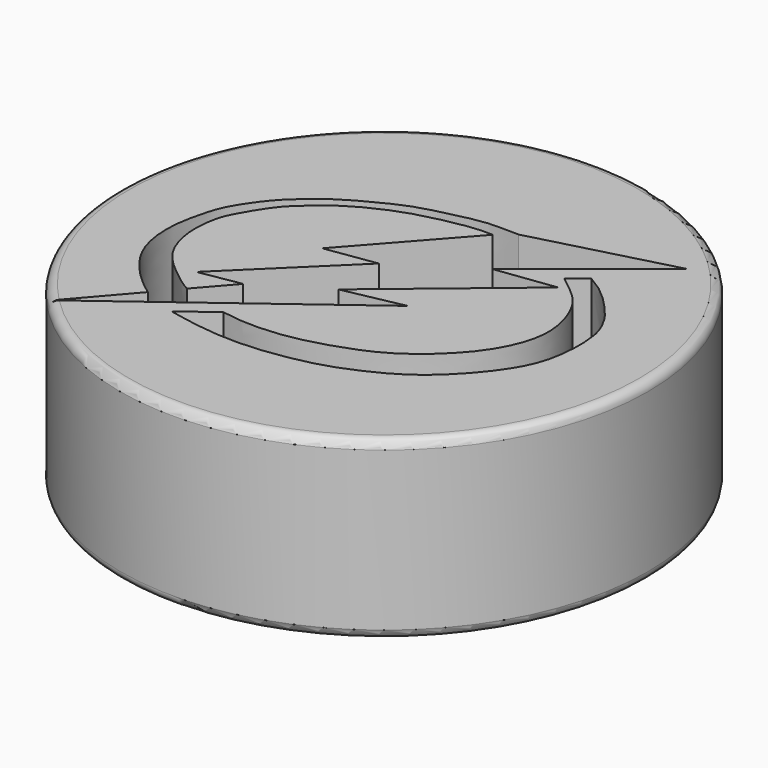
from build123d import *

# Parameters (mm, degrees)
F0_R     = 38.1
F1_DEPTH = 25.4
F2_R     = 1.27
F4_DEPTH = 10.16


with BuildPart() as f1:
    # F0 (on Top) → F1 (new body)
    with BuildSketch(Plane.XY):
        Circle(F0_R)
    extrude(amount=F1_DEPTH)

    # F2
    f2_edges = [f1.edges().sort_by_distance(p)[0] for p in [
        (-38.1, 0, 25.4),
        (-38.1, 0, 0),
    ]]
    fillet(f2_edges, radius=F2_R)

    # F3 (on face) → F4 (cut)
    with BuildSketch(Plane.XY.offset(25.4)):
        with BuildLine():
            Line((-19.5661182899, -18.1706012091), (-26.7553265637, -26.4851974048))
            Line((-26.7553265637, -26.4851974048), (5.4061874503, -2.5106431912))
            Line((5.4061874503, -2.5106431912), (-3.200049929, -4.2408025526))
            Line((-3.200049929, -4.2408025526), (15.8394873054, 11.5967263231))
            Line((15.8394873054, 11.5967263231), (7.2614595686, 10.4792513123))
            Line((7.2614595686, 10.4792513123), (24.433595378, 24.2147761598))
            Line((24.433595378, 24.2147761598), (4.2949300972, 18.9045294))
            add(Edge.make_bspline(
                [(4.2949300972, 18.9045294), (3.8578868072, 18.9001902263), (2.8255551255, 18.8899407461), (0.0728269951, 18.9879537596), (-2.416985134, 18.5661852441), (-6.4107369283, 17.6468576464), (-9.7123233005, 16.7021829393), (-12.5398092723, 15.3440163882), (-16.8721606771, 13.1040275758), (-19.9007344343, 10.7357054975), (-22.8894463137, 8.0049544035), (-25.8325272327, 3.571514678), (-26.5942743919, 1.0228501359), (-27.8243775869, -3.8193612894), (-27.1445214519, -10.193277819), (-23.7350134876, -14.6357550528), (-21.4008680736, -16.806202139), (-20.1406895566, -17.7433252345), (-19.5661182899, -18.1706012091)],
                knots=[0, 0, 0, 0, 0.0393230905, 0.0928843277, 0.1459402353, 0.2120782925, 0.2727584507, 0.3308515796, 0.40286638, 0.4671851532, 0.533772906, 0.608108541, 0.6617575665, 0.7335395787, 0.8165602186, 0.8932761667, 0.9513398719, 1, 1, 1, 1], degree=3))
        make_face()
        with BuildLine():
            add(Edge.make_bspline(
                [(2.0359272731, 17.0305203597), (1.3954106628, 17.0546042076), (-0.0892415224, 17.1104281111), (-3.5731065553, 16.5502831509), (-8.5082169393, 15.40758038), (-12.1799994257, 13.8781536445), (-15.6913864649, 12.0326267348), (-18.7093375005, 9.6369774455), (-21.4249459198, 7.0615317926), (-23.465217898, 3.5036235622), (-24.8205084542, 1.0789665507), (-25.414591442, -3.8024334011), (-23.9169773543, -8.8156140602), (-20.9006750006, -11.7286450069), (-17.920148096, -14.0343436431), (-17.0053674551, -14.5514987399), (-16.6593735189, -14.7471003077)],
                knots=[0, 0, 0, 0, 0.0533585134, 0.1236795927, 0.2084451349, 0.2836295249, 0.3576121735, 0.4308488556, 0.5037700814, 0.5784669466, 0.6408484233, 0.7223586051, 0.8071746244, 0.8844167139, 0.9562833817, 1, 1, 1, 1], degree=3))
            Line((2.0359272731, 17.0305203597), (-10.8908848154, 2.4554725062))
            Line((-10.8908848154, 2.4554725062), (-3.5924285351, 3.5412959569))
            Line((-3.5924285351, 3.5412959569), (-18.3622744366, -10.8986072092))
            Line((-18.3622744366, -10.8986072092), (-12.4181416451, -9.8916973697))
            Line((-12.4181416451, -9.8916973697), (-16.6593735189, -14.7471003077))
        make_face(mode=Mode.SUBTRACT)
        with BuildLine():
            add(Edge.make_bspline(
                [(17.3873861626, 15.6334186555), (18.0370958634, 15.2589721072), (19.3749563206, 14.4879243151), (21.3265644237, 12.8038361847), (23.0478327612, 10.9995316669), (24.778719369, 8.9559550933), (26.2146688484, 6.1020958965), (26.3979131008, 3.9139763932), (26.5491055591, 2.71825424), (26.4625942606, -0.8082938445), (25.5136962919, -4.8925023756), (22.5000147718, -9.5825463131), (17.5963832254, -14.740520896), (12.3872032479, -17.7055628688), (7.5630660017, -19.7133836725), (3.1258890287, -20.746211478), (-2.1365566408, -21.5172519141), (-8.365474944, -21.4265742118), (-12.4795067403, -20.5878213551), (-14.5448679776, -20.1667435114)],
                knots=[0, 0, 0, 0, 0.0448250287, 0.092302198, 0.1390260415, 0.1877941832, 0.2409788153, 0.2837285607, 0.3160106559, 0.3702840764, 0.4314149985, 0.501108459, 0.5803195518, 0.6531562215, 0.7203239803, 0.783247441, 0.851372124, 0.9253845694, 1, 1, 1, 1], degree=3))
            Line((17.3873861626, 15.6334186555), (15.0031798623, 13.7454713383))
            add(Edge.make_bspline(
                [(-9.8547809612, -16.6705540785), (-8.8513922673, -16.8368529644), (-6.6835445534, -17.1961460894), (-2.2683618168, -17.0786395481), (1.9592718785, -16.373668921), (8.3191866593, -14.3188597994), (12.4218579634, -12.0285396002), (16.7822239361, -8.3732731196), (20.3852473964, -3.7979371357), (22.5516095847, 2.5973484144), (20.2177525614, 9.1228571556), (17.816185371, 11.551632666), (15.9466715379, 13.0096503389), (15.0031798623, 13.7454713383)],
                knots=[0, 0, 0, 0, 0.0734379394, 0.1586646033, 0.2453518248, 0.3507074217, 0.4408496419, 0.5375155853, 0.636853644, 0.7423131031, 0.8474861883, 0.9230305178, 1, 1, 1, 1], degree=3))
            Line((-9.8547809612, -16.6705540785), (-14.5448679776, -20.1667435114))
        make_face()
    extrude(amount=-F4_DEPTH, mode=Mode.SUBTRACT)


solid = f1.part
